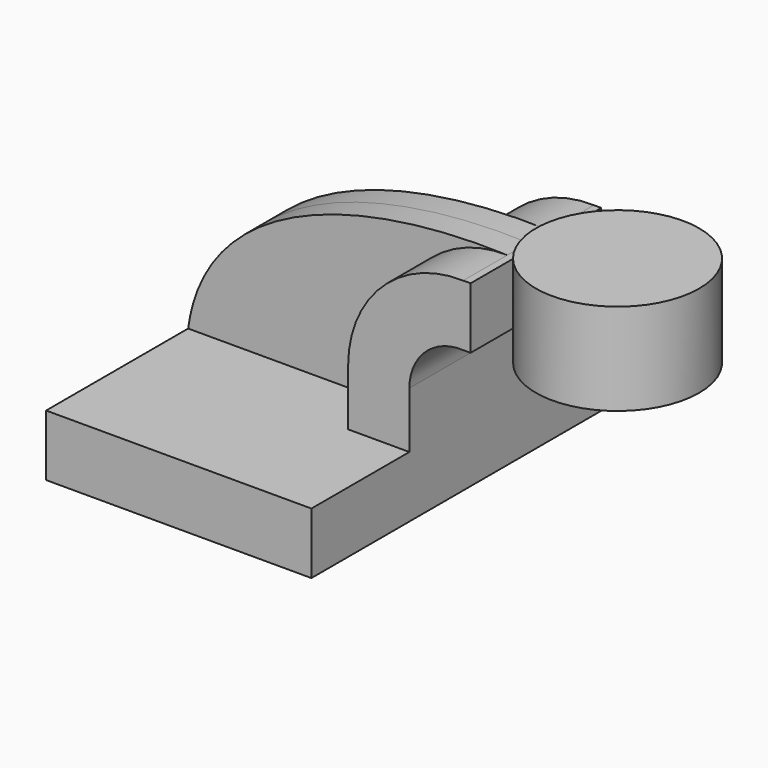
from build123d import *

# Parameters (mm, degrees)
F1_DEPTH = 63.5
F2_DEPTH = 25.4
F3_DEPTH = 8.255


with BuildPart() as f1:
    # F0 (on Front) → F1 (new body, symmetric)
    with BuildSketch(Plane.XZ):
        Polygon((22.225, 9.525), (-41.275, 9.525), (-41.275, -9.525), (41.275, -9.525), (41.275, 9.525), align=None)
    extrude(amount=F1_DEPTH, both=True)

    # F0 (on Front) → F2 (join, symmetric)
    with BuildSketch(Plane.XZ):
        with BuildLine():
            Line((22.225, 27.011227), (22.225, 9.525))
            Line((22.225, 9.525), (41.275, 9.525))
            Line((41.275, 9.525), (41.275, 27.011227))
            ThreePointArc((41.275, 27.011227), (46.135827, 38.443795), (57.741597, 42.8752))
            Line((57.741597, 42.8752), (60.325, 42.8752))
            Line((60.325, 42.8752), (60.325, 61.9252))
            Line((60.325, 61.9252), (58.027563, 61.9252))
            ThreePointArc((58.027563, 61.9252), (32.766535, 52.015272), (22.225, 27.011227))
        make_face()
    extrude(amount=F2_DEPTH, both=True)

    # F0 (on Front) → F3 (join, symmetric)
    with BuildSketch(Plane.XZ):
        with BuildLine():
            add(Edge.make_bspline(
                [(58.027563, 61.9252), (11.694669, 63.61267), (-35.922706, 49.426701), (-41.275, 9.525)],
                knots=[0, 0, 0, 0, 112.279918, 112.279918, 112.279918, 112.279918], degree=3))
            Line((-41.275, 9.525), (22.225, 9.525))
            Line((22.225, 9.525), (22.225, 27.011227))
            ThreePointArc((22.225, 27.011227), (32.766535, 52.015272), (58.027563, 61.9252))
        make_face()
    extrude(amount=F3_DEPTH, both=True)

    # F0 (on Front) → F4 (revolve)
    with BuildSketch(Plane.XZ):
        Polygon((85.725, 66.675), (85.725, 61.9252), (85.725, 42.8752), (85.725, 38.1), (111.125, 38.1), (111.125, 66.675), align=None)
    revolve(axis=Axis((85.725, 0, 52.3875), (0, 0, 1)))


solid = f1.part
